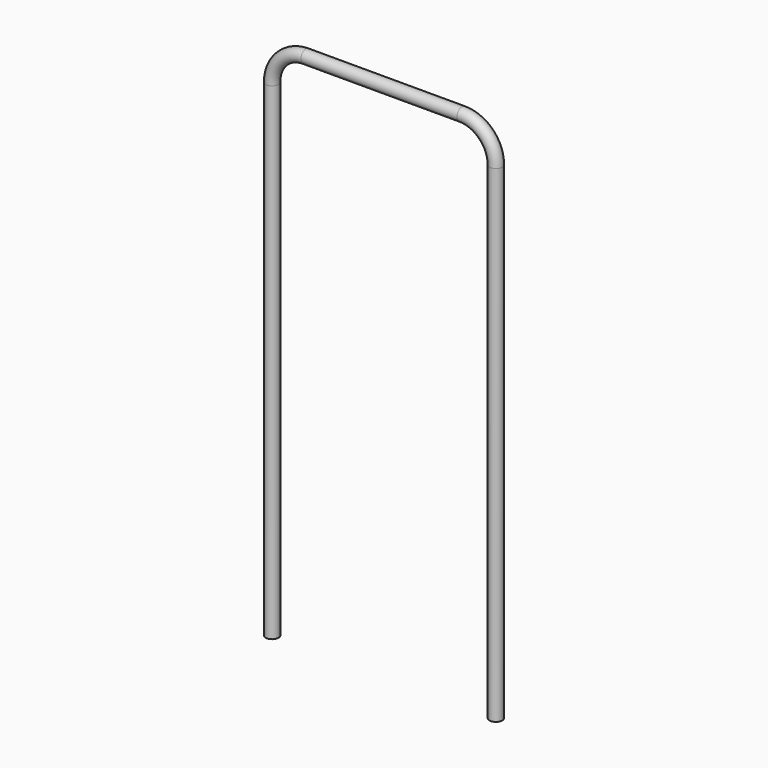
from build123d import *

# Parameters (mm, degrees)
F2_R = 9.5


with BuildPart() as f3:
    # F3: sweep along a path in F0
    with BuildLine(Plane.XZ) as f3_path:
        Line((-60.6934127808, 0), (-60.6934127808, 720.5))
        ThreePointArc((-60.6934127808, 720.5), (-46.0487518401, 755.8553390593), (-10.6934127808, 770.5))
        Line((-10.6934127808, 770.5), (220.3065872192, 770.5))
        ThreePointArc((220.3065872192, 770.5), (255.6619262786, 755.8553390593), (270.3065872192, 720.5))
        Line((270.3065872192, 720.5), (270.3065872192, 0))
    # F2 (on face) → F3 (sweep)
    with BuildSketch(Plane.XY):
        with Locations((-60.6934127808, 0)):
            Circle(F2_R)
    sweep(path=f3_path.line)


solid = f3.part
